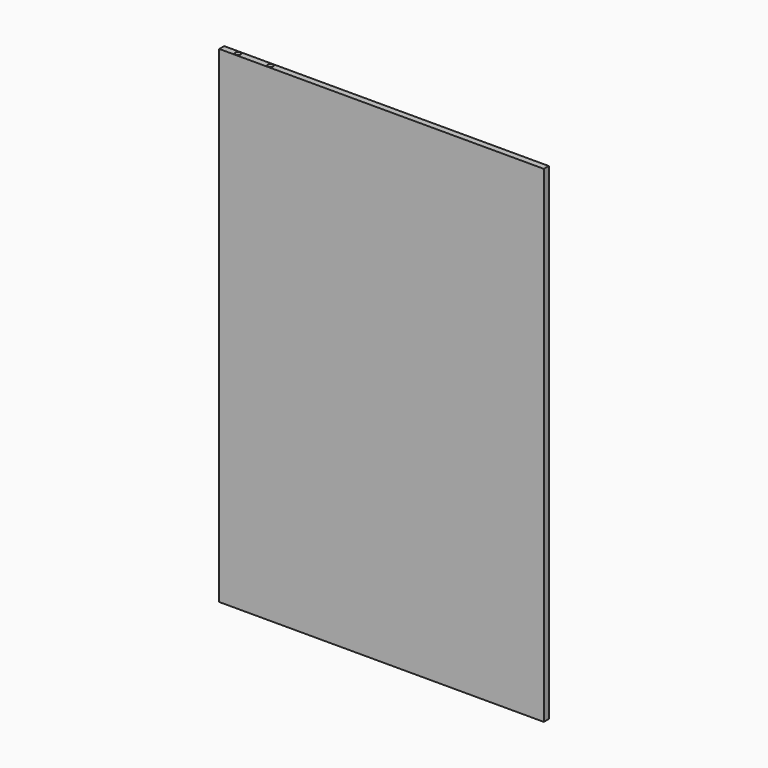
from build123d import *

# Parameters (mm, degrees)
F0_W     = 200
F0_H     = 300
F2_DEPTH = 1.905
F4_R     = 1.5875


with BuildPart() as f2:
    # F0 (on Front) → F2 (new body, symmetric)
    with BuildSketch(Plane.XZ):
        Rectangle(F0_W, F0_H)
    extrude(amount=F2_DEPTH, both=True)

    # F5: sweep along a path in F1
    with BuildLine(Plane.XZ) as f5_path:
        Line((-90, 159.9025279284), (-90, -133.65))
        ThreePointArc((-90, -133.65), (-88.1401280605, -138.1401280605), (-83.65, -140))
        Line((-83.65, -140), (-76.35, -140))
        ThreePointArc((-76.35, -140), (-71.8598719395, -138.1401280605), (-70, -133.65))
        Line((-70, -133.65), (-70, 113.65))
        ThreePointArc((-70, 113.65), (-68.1401280605, 118.1401280605), (-63.65, 120))
        Line((-63.65, 120), (-56.35, 120))
        ThreePointArc((-56.35, 120), (-51.8598719395, 118.1401280605), (-50, 113.65))
        Line((-50, 113.65), (-50, -133.65))
        ThreePointArc((-50, -133.65), (-48.1401280605, -138.1401280605), (-43.65, -140))
        Line((-43.65, -140), (-36.35, -140))
        ThreePointArc((-36.35, -140), (-31.8598719395, -138.1401280605), (-30, -133.65))
        Line((-30, -133.65), (-30, 113.65))
        ThreePointArc((-30, 113.65), (-28.1401280605, 118.1401280605), (-23.65, 120))
        Line((-23.65, 120), (-16.35, 120))
        ThreePointArc((-16.35, 120), (-11.8598719395, 118.1401280605), (-10, 113.65))
        Line((-10, 113.65), (-10, -133.65))
        ThreePointArc((-10, -133.65), (-8.1401280605, -138.1401280605), (-3.65, -140))
        Line((-3.65, -140), (3.65, -140))
        ThreePointArc((3.65, -140), (8.1401280605, -138.1401280605), (10, -133.65))
        Line((10, -133.65), (10, 113.65))
        ThreePointArc((10, 113.65), (11.8598719395, 118.1401280605), (16.35, 120))
        Line((16.35, 120), (23.65, 120))
        ThreePointArc((23.65, 120), (28.1401280605, 118.1401280605), (30, 113.65))
        Line((30, 113.65), (30, -133.65))
        ThreePointArc((30, -133.65), (31.8598719395, -138.1401280605), (36.35, -140))
        Line((36.35, -140), (43.65, -140))
        ThreePointArc((43.65, -140), (48.1401280605, -138.1401280605), (50, -133.65))
        Line((50, -133.65), (50, 113.65))
        ThreePointArc((50, 113.65), (51.8598719395, 118.1401280605), (56.35, 120))
        Line((56.35, 120), (63.65, 120))
        ThreePointArc((63.65, 120), (68.1401280605, 118.1401280605), (70, 113.65))
        Line((70, 113.65), (70, -133.65))
        ThreePointArc((70, -133.65), (71.8598719395, -138.1401280605), (76.35, -140))
        Line((76.35, -140), (83.65, -140))
        ThreePointArc((83.65, -140), (88.1401280605, -138.1401280605), (90, -133.65))
        Line((90, -133.65), (90, 133.6424))
        ThreePointArc((90, 133.6424), (88.1401280605, 138.1325280605), (83.65, 139.9924))
        Line((83.65, 139.9924), (-63.65, 139.9924))
        ThreePointArc((-63.65, 139.9924), (-68.1401280605, 141.8522719395), (-70, 146.3424))
        Line((-70, 146.3424), (-70, 159.9025279284))
    # F4 (on plane+point) → F5 (sweep, cut)
    with BuildSketch(Plane.XY.offset(159.9025279284)):
        with Locations((-90.0031626225, 0)):
            Circle(F4_R)
    sweep(path=f5_path.line, mode=Mode.SUBTRACT)


solid = f2.part
